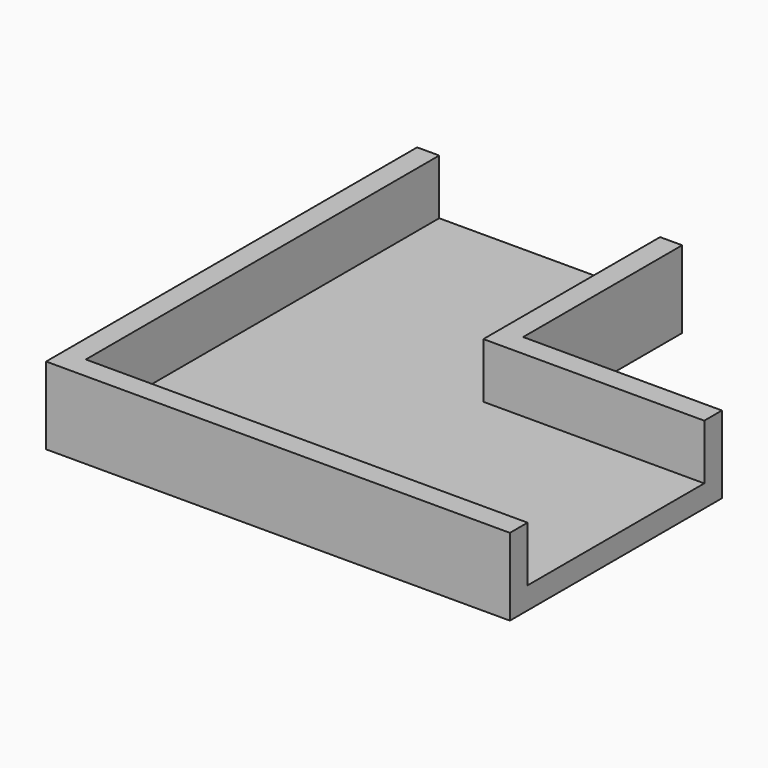
from build123d import *

# Parameters (mm, degrees)
F1_DEPTH = 5
F2_T     = 2


with BuildPart() as f1:
    # F0 (on Top) → F1 (new body)
    with BuildSketch(Plane.XY):
        Polygon((0, 20), (-20, 20), (-20, -20), (20, -20), (20, 0), (0, 0), align=None)
    extrude(amount=F1_DEPTH)

    # F2
    f2_openings = [f1.faces().sort_by_distance(p)[0] for p in [
        (-3.333333, -3.333333, 5),
        (20, -10, 2.5),
        (-10, 20, 2.5),
    ]]
    offset(amount=F2_T, openings=f2_openings, kind=Kind.INTERSECTION)


solid = f1.part
